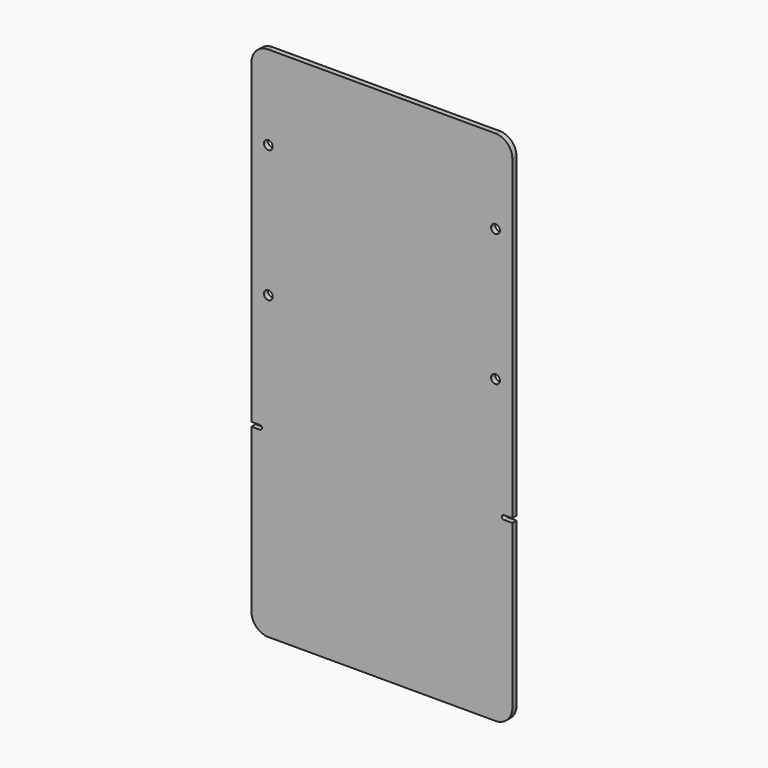
from build123d import *

# Parameters (mm, degrees)
F0_R     = 5.25
F1_DEPTH = 6.25


with BuildPart() as f1:
    # F0 (on Front) → F1 (new body)
    with BuildSketch(Plane.XZ):
        with BuildLine():
            Line((135, -337.2599571943), (0, -337.2599571943))
            Line((0, -337.2599571943), (0, -195.6795060433))
            Line((0, -195.6795060433), (0, -38.6795060433))
            Line((0, -38.6795060433), (0, 61.3204939567))
            Line((0, 61.3204939567), (-135, 61.3204939567))
            ThreePointArc((-135, 61.3204939567), (-149.1421356237, 55.4626295805), (-155, 41.3204939567))
            Line((-155, 41.3204939567), (-155, -334.7599571943))
            Line((-155, -334.7599571943), (-145, -334.7599571943))
            ThreePointArc((-145, -334.7599571943), (-142.5, -337.2599571943), (-145, -339.7599571943))
            Line((-145, -339.7599571943), (-155, -339.7599571943))
            Line((-155, -339.7599571943), (-155, -533.3780631419))
            ThreePointArc((-155, -533.3780631419), (-149.1421356237, -547.5201987656), (-135, -553.3780631419))
            Line((-135, -553.3780631419), (135, -553.3780631419))
            ThreePointArc((135, -553.3780631419), (149.1421356237, -547.5201987656), (155, -533.3780631419))
            Line((155, -533.3780631419), (155, -339.7599571943))
            Line((155, -339.7599571943), (145, -339.7599571943))
            ThreePointArc((145, -339.7599571943), (142.5, -337.2599571943), (145, -334.7599571943))
            Line((145, -334.7599571943), (155, -334.7599571943))
            Line((155, -334.7599571943), (155, -195.6795060433))
            Line((155, -195.6795060433), (140.25, -195.6795060433))
            ThreePointArc((140.25, -195.6795060433), (138.7123106012, -199.3918166445), (135, -200.9295060433))
            Line((135, -200.9295060433), (135, -337.2599571943))
        make_face()
        with Locations((-135, -195.6795060433)):
            Circle(F0_R, mode=Mode.SUBTRACT)
        with Locations((-135, -38.6795060433)):
            Circle(F0_R, mode=Mode.SUBTRACT)
        with BuildLine():
            Line((0, 61.3204939567), (0, -38.6795060433))
            Line((0, -38.6795060433), (129.75, -38.6795060433))
            ThreePointArc((129.75, -38.6795060433), (131.2876893988, -34.967195442), (135, -33.4295060433))
            Line((135, -33.4295060433), (135, 61.3204939567))
            Line((135, 61.3204939567), (0, 61.3204939567))
        make_face()
        with BuildLine():
            Line((135, -43.9295060433), (135, -190.4295060433))
            ThreePointArc((135, -190.4295060433), (138.7123106012, -191.967195442), (140.25, -195.6795060433))
            Line((140.25, -195.6795060433), (155, -195.6795060433))
            Line((155, -195.6795060433), (155, -38.6795060433))
            Line((155, -38.6795060433), (140.25, -38.6795060433))
            ThreePointArc((140.25, -38.6795060433), (138.7123106012, -42.3918166445), (135, -43.9295060433))
        make_face()
        with BuildLine():
            ThreePointArc((155, 41.3204939567), (149.1421356237, 55.4626295805), (135, 61.3204939567))
            Line((135, 61.3204939567), (135, -33.4295060433))
            ThreePointArc((135, -33.4295060433), (138.7123106012, -34.967195442), (140.25, -38.6795060433))
            Line((140.25, -38.6795060433), (155, -38.6795060433))
            Line((155, -38.6795060433), (155, 41.3204939567))
        make_face()
        with BuildLine():
            Line((0, -38.6795060433), (0, -195.6795060433))
            Line((0, -195.6795060433), (129.75, -195.6795060433))
            ThreePointArc((129.75, -195.6795060433), (131.2876893988, -191.967195442), (135, -190.4295060433))
            Line((135, -190.4295060433), (135, -43.9295060433))
            ThreePointArc((135, -43.9295060433), (131.2876893988, -42.3918166445), (129.75, -38.6795060433))
            Line((129.75, -38.6795060433), (0, -38.6795060433))
        make_face()
        with BuildLine():
            Line((0, -195.6795060433), (0, -337.2599571943))
            Line((0, -337.2599571943), (135, -337.2599571943))
            Line((135, -337.2599571943), (135, -200.9295060433))
            ThreePointArc((135, -200.9295060433), (131.2876893988, -199.3918166445), (129.75, -195.6795060433))
            Line((129.75, -195.6795060433), (0, -195.6795060433))
        make_face()
    extrude(amount=F1_DEPTH)


solid = f1.part
